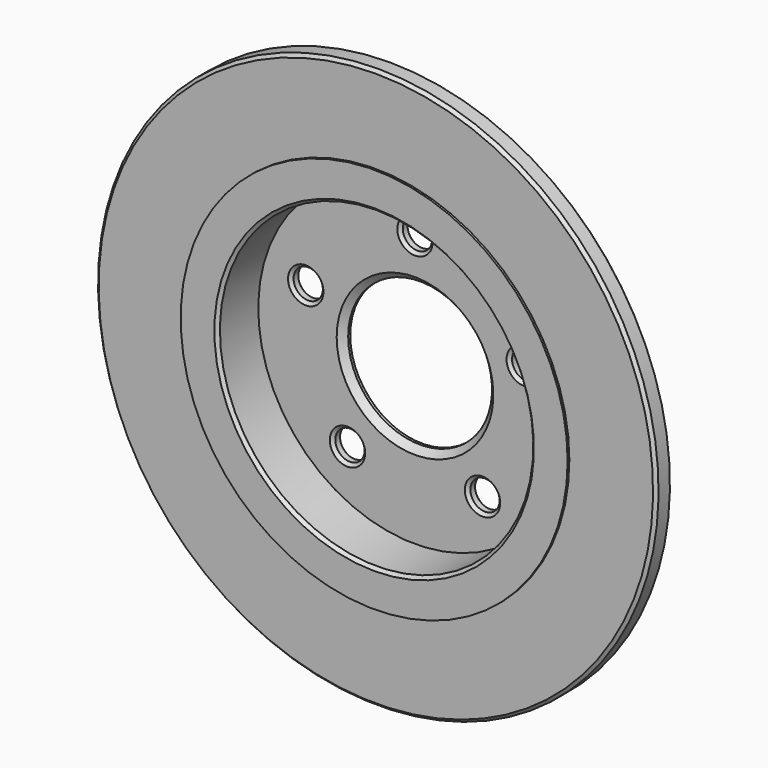
from build123d import *

# Parameters (mm, degrees)
F2_R     = 169.8017669699
F2_R_2   = 96.266
F3_DEPTH = 0.5842
F4_R     = 139.446
F4_R_2   = 96.266
F5_DEPTH = 1.0668
F6_SIZE  = 1.524
F7_R     = 35.7886
F7_R_2   = 7.2771
F8_DEPTH = 25.4
F9_SIZE  = 1.524
F10_SIZE = 3.175


with BuildPart() as f1:
    # F0 (on Right) → F1 (revolve)
    with BuildSketch(Plane.YZ):
        Polygon((-5.9944, 0), (0, 0), (0, 82.931), (-19.6342, 82.931), (-19.6342, 139.446), (-31.3944, 139.446), (-31.3944, 77.978), (-5.9944, 77.978), align=None)
    revolve(axis=Axis((0, 54.5056797507, 0), (0, 1, 0)))

    # F2 (on face) → F3 (cut)
    with BuildSketch(Plane(origin=(0, -19.6342, 0), x_dir=(-1, 0, 0), z_dir=(0, 1, 0))):
        Circle(F2_R)
        Circle(F2_R_2, mode=Mode.SUBTRACT)
    extrude(amount=-F3_DEPTH, mode=Mode.SUBTRACT)

    # F4 (on face) → F5 (cut)
    with BuildSketch(Plane.XZ.offset(31.3944)):
        Circle(F4_R)
        Circle(F4_R_2, mode=Mode.SUBTRACT)
    extrude(amount=-F5_DEPTH, mode=Mode.SUBTRACT)

    # F6
    f6_edges = [f1.edges().sort_by_distance(p)[0] for p in [
        (0, -20.2184, -139.446),
        (0, -30.3276, -139.446),
        (0, 0, -82.931),
        (0, -31.3944, -77.978),
    ]]
    chamfer(f6_edges, length=F6_SIZE)

    # F7 (on face) → F8 (cut)
    with BuildSketch(Plane(origin=(0, 0, 0), x_dir=(-1, 0, 0), z_dir=(0, 1, 0))):
        Circle(F7_R)
        with Locations((0, 57.15)):
            Circle(F7_R_2)
        with Locations((-54.3528799063, 17.6603212285)):
            Circle(F7_R_2)
        with Locations((-33.5919271685, -46.2353212285)):
            Circle(F7_R_2)
        with Locations((33.5919271685, -46.2353212285)):
            Circle(F7_R_2)
        with Locations((54.3528799063, 17.6603212285)):
            Circle(F7_R_2)
    extrude(amount=-F8_DEPTH, mode=Mode.SUBTRACT)

    # F9
    f9_edges = [f1.edges().sort_by_distance(p)[0] for p in [
        (7.2771, 0, 57.15),
        (-47.07578, 0, 17.660321),
        (-26.314827, 0, -46.235321),
        (40.869027, 0, -46.235321),
        (61.62998, 0, 17.660321),
        (-26.314827, -5.9944, -46.235321),
        (-47.07578, -5.9944, 17.660321),
        (7.2771, -5.9944, 57.15),
        (61.62998, -5.9944, 17.660321),
        (40.869027, -5.9944, -46.235321),
        (35.7886, 0, 0),
    ]]
    chamfer(f9_edges, length=F9_SIZE)

    # F10
    f10_edges = [f1.edges().sort_by_distance(p)[0] for p in [
        (35.7886, -5.9944, 0),
    ]]
    chamfer(f10_edges, length=F10_SIZE)


solid = f1.part
